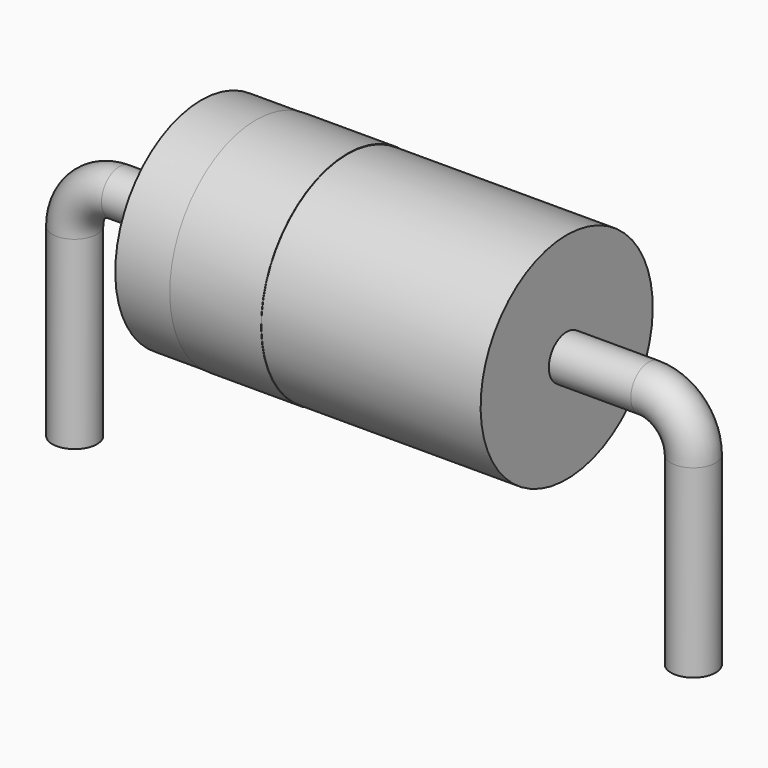
from build123d import *

# Parameters (mm, degrees)
SKETCH002_W = 9
SKETCH002_H = 2.65
SKETCH_R    = 0.55
SKETCH003_W = 2.25
SKETCH003_H = 0.02


with BuildPart() as revolution:
    # Sketch002 → Revolution (revolve)
    with BuildSketch(Plane.XZ):
        with Locations((7.62, 4.475)):
            Rectangle(SKETCH002_W, SKETCH002_H)
    revolve(axis=Axis((3.12, 0, 3.15), (1, 0, 0)))


with BuildPart() as sweep_body:
    # Sweep: sweep along a path in Sketch001
    with BuildLine(Plane.XZ) as sweep_path:
        Line((0, -2.5), (0, 2.05))
        ThreePointArc((0, 2.05), (0.322183, 2.827817), (1.1, 3.15))
        Line((1.1, 3.15), (14.14, 3.15))
        ThreePointArc((14.14, 3.15), (14.917817, 2.827817), (15.24, 2.05))
        Line((15.24, 2.05), (15.24, -2.5))
    # Sketch → Sweep (sweep)
    with BuildSketch(Plane.XY.offset(-2)):
        Circle(SKETCH_R)
    sweep(path=sweep_path.line)


with BuildPart() as obj1:
    # Sketch003 → Revolution001 (revolve)
    with BuildSketch(Plane.XZ):
        with Locations((5.595, 5.8)):
            Rectangle(SKETCH003_W, SKETCH003_H)
    revolve(axis=Axis((0, 0, 3.15), (1, 0, 0)))

    add(revolution.part)
    add(sweep_body.part)


solid = obj1.part
